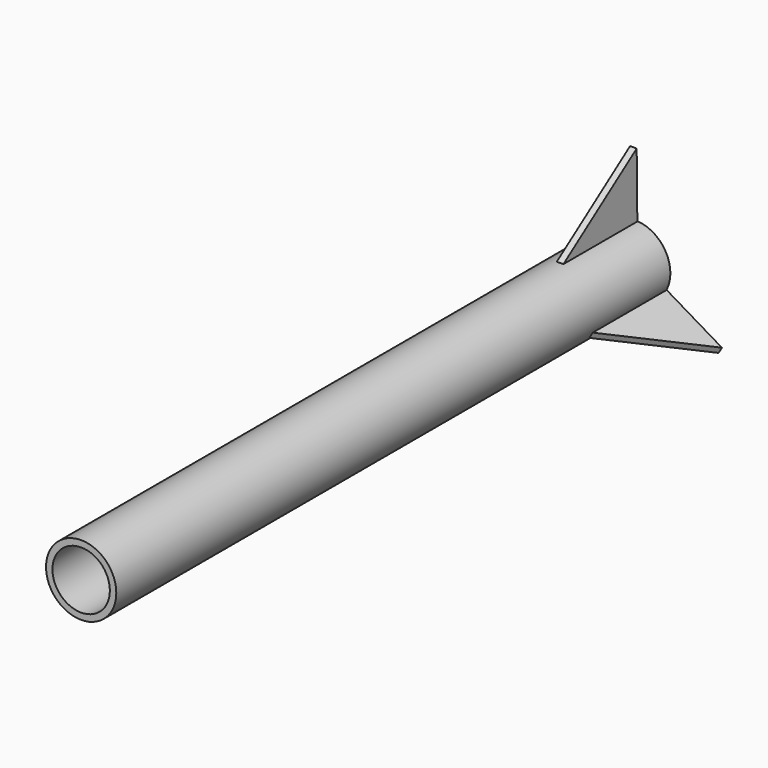
from build123d import *

# Parameters (mm, degrees)
F0_R     = 13.529932
F1_DEPTH = 133.35
F2_R     = 11.057137
F3_DEPTH = 133.35
F5_DEPTH = 1.27
F6_ANGLE = 120
F7_ANGLE = -120


with BuildPart() as f1:
    # F0 (on Front) → F1 (new body, symmetric)
    with BuildSketch(Plane.XZ):
        Circle(F0_R)
    extrude(amount=F1_DEPTH, both=True)

    # F2 (on Front) → F3 (cut, symmetric)
    with BuildSketch(Plane.XZ):
        Circle(F2_R)
    extrude(amount=F3_DEPTH, both=True, mode=Mode.SUBTRACT)


with BuildPart() as f5:
    # F4 (on Right) → F5 (new body, symmetric)
    with BuildSketch(Plane.YZ):
        Polygon((97.190965, 13.760191), (132.771455, 13.760191), (132.460549, 38.632963), align=None)
    extrude(amount=F5_DEPTH, both=True)


with BuildPart() as f6_1:
    # F6: copy of F5
    add(f5.part.rotate(Axis((0, -133.35, 0), (0, -1, 0)), F6_ANGLE))


with BuildPart() as f7_1:
    # F7: copy of F5
    add(f5.part.rotate(Axis((0, -133.35, 0), (0, -1, 0)), F7_ANGLE))


solid = Compound([f1.part, f5.part, f6_1.part, f7_1.part])
